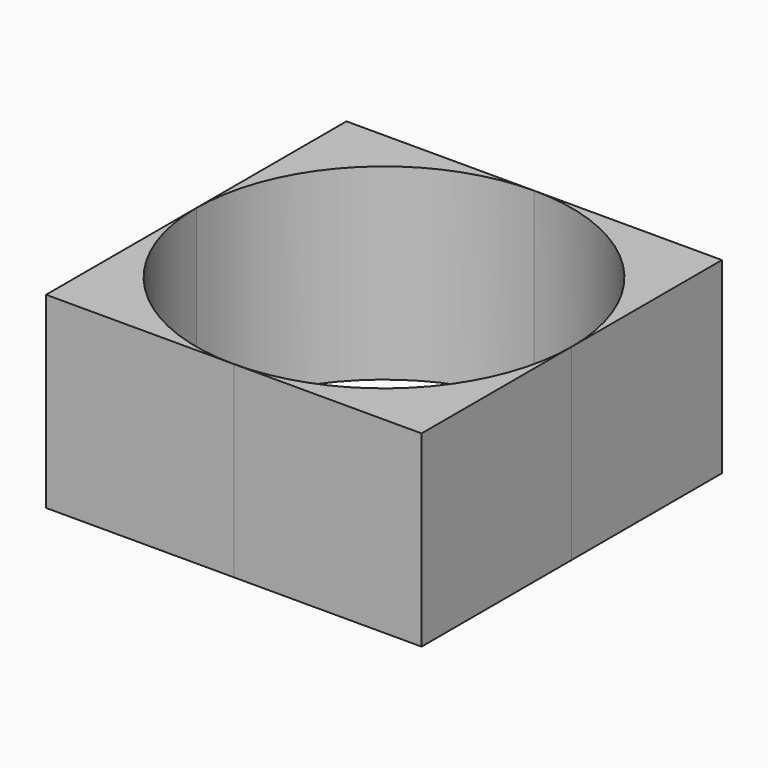
from build123d import *

# Parameters (mm, degrees)
F1_DEPTH = 25.4


with BuildPart() as f1:
    # F0 (on Top) → F1 (new body)
    with BuildSketch(Plane.XY):
        with BuildLine():
            ThreePointArc((4.89e-08, 25.4), (17.9605122594, 17.9605122249), (25.4, 0))
            Line((25.4, 0), (25.4, 25.4))
            Line((25.4, 25.4), (4.89e-08, 25.4))
        make_face()
    extrude(amount=F1_DEPTH)


with BuildPart() as f1b:
    # F0 (on Top) → F1, piece 2 (new body)
    with BuildSketch(Plane.XY):
        with BuildLine():
            ThreePointArc((-25.4, 3.44e-08), (-17.9605122127, 17.9605122716), (4.89e-08, 25.4))
            Line((4.89e-08, 25.4), (-25.4, 25.4))
            Line((-25.4, 25.4), (-25.4, 3.44e-08))
        make_face()
    extrude(amount=F1_DEPTH)


with BuildPart() as f1c:
    # F0 (on Top) → F1, piece 3 (new body)
    with BuildSketch(Plane.XY):
        with BuildLine():
            Line((-25.4, -25.4), (3.01e-08, -25.4))
            ThreePointArc((3.01e-08, -25.4), (-17.9605122437, -17.9605122406), (-25.4, 3.44e-08))
            Line((-25.4, 3.44e-08), (-25.4, -25.4))
        make_face()
    extrude(amount=F1_DEPTH)


with BuildPart() as f1d:
    # F0 (on Top) → F1, piece 4 (new body)
    with BuildSketch(Plane.XY):
        with BuildLine():
            Line((25.4, -25.4), (25.4, 0))
            ThreePointArc((25.4, 0), (17.9605122528, -17.9605122315), (3.01e-08, -25.4))
            Line((3.01e-08, -25.4), (25.4, -25.4))
        make_face()
    extrude(amount=F1_DEPTH)


solid = Compound([f1.part, f1b.part, f1c.part, f1d.part])
